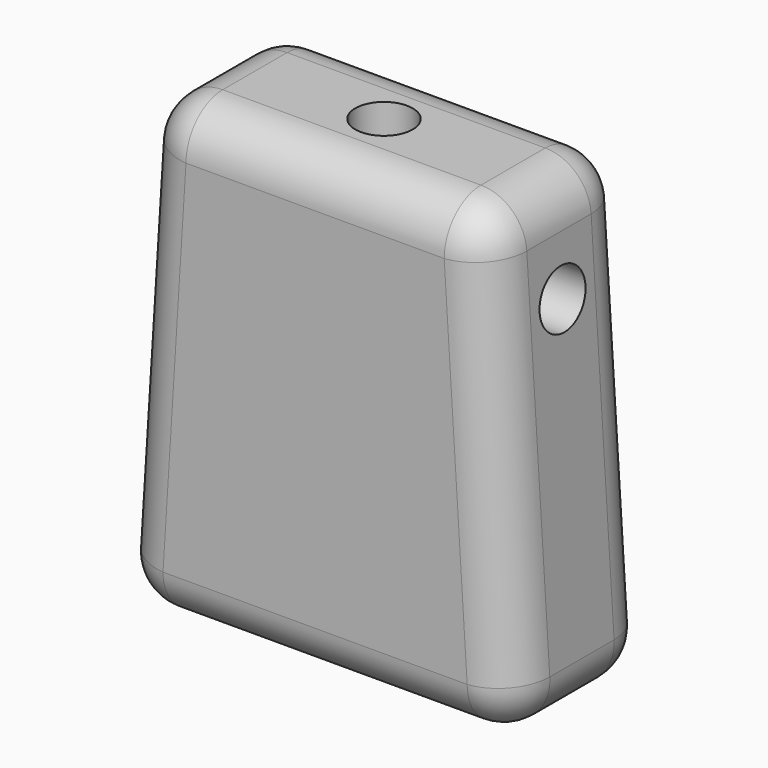
from build123d import *

# Parameters (mm, degrees)
F1_DEPTH = 9.525
F2_R     = 5.08
F3_R     = 3.175
F4_DEPTH = 25.4
F5_R     = 3.175
F6_DEPTH = 7.62
F7_R     = 3.175
F8_DEPTH = 7.62


with BuildPart() as f1:
    # F0 (on Front) → F1 (new body, symmetric)
    with BuildSketch(Plane.XZ):
        Polygon((-19.05, 50.8), (-22.225, 0), (22.225, 0), (19.05, 50.8), align=None)
    extrude(amount=F1_DEPTH, both=True)

    # F2
    f2_edges = [f1.edges().sort_by_distance(p)[0] for p in [
        (0, -9.525, 50.8),
        (19.05, 0, 50.8),
        (-19.05, 0, 50.8),
        (0, 9.525, 50.8),
        (22.225, 0, 0),
        (0, -9.525, 0),
        (-22.225, 0, 0),
        (0, 9.525, 0),
        (20.6375, -9.525, 25.4),
        (20.6375, 9.525, 25.4),
        (-20.6375, 9.525, 25.4),
        (-20.6375, -9.525, 25.4),
    ]]
    fillet(f2_edges, radius=F2_R)

    # F3 (on Right) → F4 (cut, symmetric)
    with BuildSketch(Plane.YZ):
        with Locations((0, 39.686882)):
            Circle(F3_R)
    extrude(amount=F4_DEPTH, both=True, mode=Mode.SUBTRACT)

    # F5 (on face) → F6 (cut)
    with BuildSketch(Plane.XY.offset(50.8)):
        Circle(F5_R)
    extrude(amount=-F6_DEPTH, mode=Mode.SUBTRACT)

    # F7 (on face) → F8 (cut)
    with BuildSketch(Plane(origin=(0, 0, 0), x_dir=(1, 0, 0), z_dir=(0, 0, -1))):
        with Locations((-9.525, 0)):
            Circle(F7_R)
        with Locations((9.525, 0)):
            Circle(F7_R)
    extrude(amount=-F8_DEPTH, mode=Mode.SUBTRACT)


solid = f1.part
